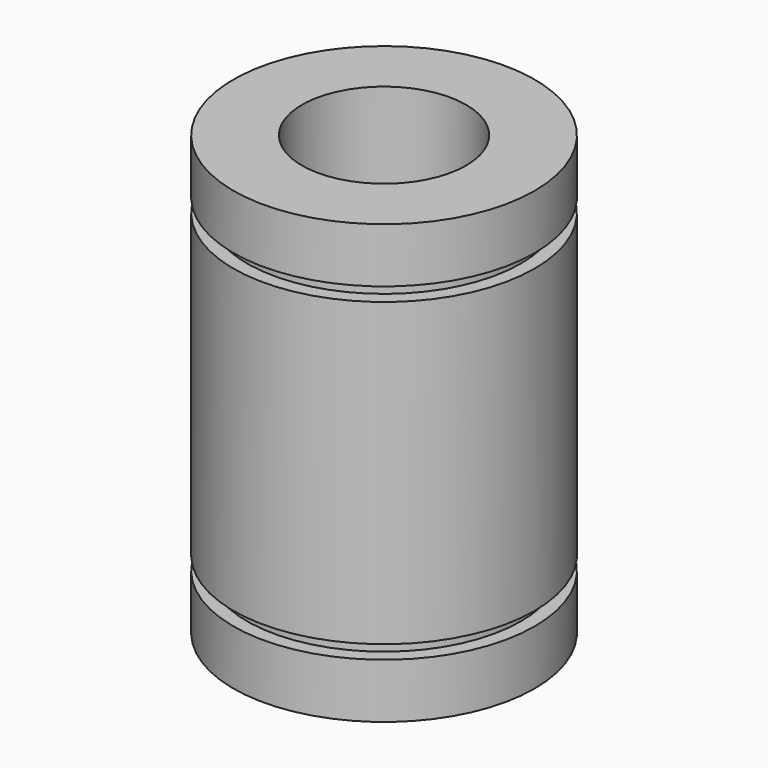
from build123d import *


with BuildPart() as part:
    # Sketch → Revolution (revolve)
    with BuildSketch(Plane.XZ):
        Polygon((6, 16), (6, -16), (11, -16), (11, -12), (10, -12), (10, -11), (11, -11), (11, 11), (10, 11), (10, 12), (11, 12), (11, 16), align=None)
    revolve(axis=Axis((0, 0, 0), (0, 0, 1)))


solid = part.part
